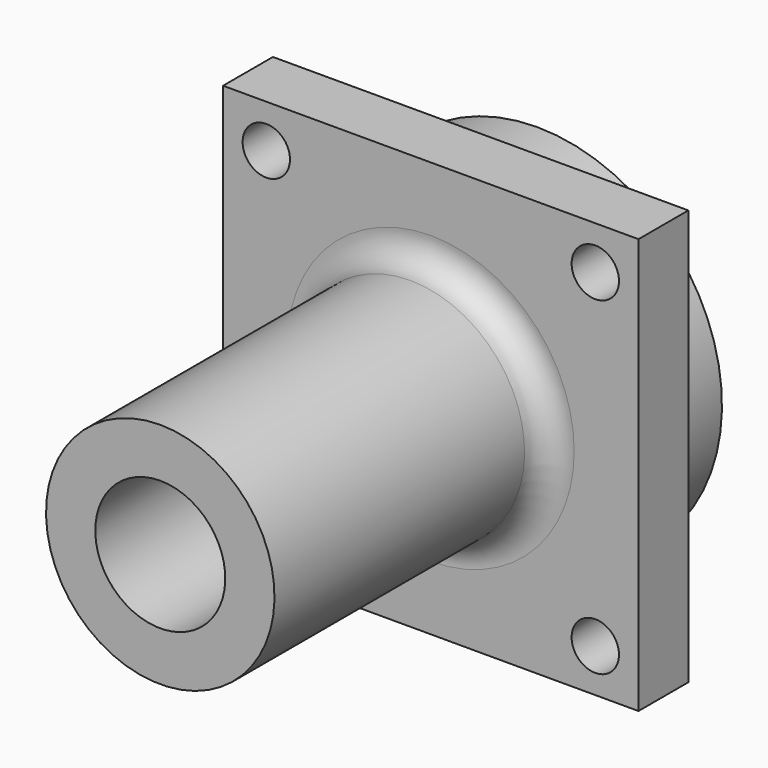
from build123d import *

# Parameters (mm, degrees)
F3_DEPTH = 3.81
F4_R     = 1.4478
F5_DEPTH = 25.4


with BuildPart() as f1:
    # F0 (on Right) → F1 (revolve)
    with BuildSketch(Plane.YZ):
        with BuildLine():
            Line((19.114999, 6.985), (0, 6.985))
            Line((0, 6.985), (0, 3.9751))
            Line((0, 3.9751), (28.8036, 3.9751))
            Line((28.8036, 3.9751), (28.8036, 11.303))
            Line((28.8036, 11.303), (24.4856, 11.303))
            Line((24.4856, 11.303), (24.4856, 12.7))
            Line((24.4856, 12.7), (20.6756, 12.7))
            Line((20.6756, 12.7), (20.6756, 8.770797))
            ThreePointArc((20.6756, 8.770797), (20.300805, 7.523529), (19.114999, 6.985))
        make_face()
    revolve(axis=Axis((0, 1.728549, 0), (0, 1, 0)))

    # F2 (on face) → F3 (join, through all)
    with BuildSketch(Plane.XZ.offset(-20.6756)):
        with BuildLine():
            Line((-12.7, 12.7), (-12.7, 0))
            ThreePointArc((-12.7, 0), (-8.980256, 8.980256), (0, 12.7))
            Line((0, 12.7), (-12.7, 12.7))
        make_face()
        with BuildLine():
            ThreePointArc((0, 12.7), (8.980256, 8.980256), (12.7, 0))
            Line((12.7, 0), (12.7, 12.7))
            Line((12.7, 12.7), (0, 12.7))
        make_face()
        with BuildLine():
            Line((0, -12.7), (12.7, -12.7))
            Line((12.7, -12.7), (12.7, 0))
            ThreePointArc((12.7, 0), (8.980256, -8.980256), (0, -12.7))
        make_face()
        with BuildLine():
            Line((-12.7, -12.7), (0, -12.7))
            ThreePointArc((0, -12.7), (-8.980256, -8.980256), (-12.7, 0))
            Line((-12.7, 0), (-12.7, -12.7))
        make_face()
    extrude(amount=-F3_DEPTH)

    # F4 (on face) → F5 (cut)
    with BuildSketch(Plane.XZ.offset(-20.6756)):
        with Locations((10.0584, -10.0584)):
            Circle(F4_R)
        with Locations((10.0584, 10.0584)):
            Circle(F4_R)
        with Locations((-10.0584, -10.0584)):
            Circle(F4_R)
        with Locations((-10.0584, 10.0584)):
            Circle(F4_R)
    extrude(amount=-F5_DEPTH, mode=Mode.SUBTRACT)


solid = f1.part
